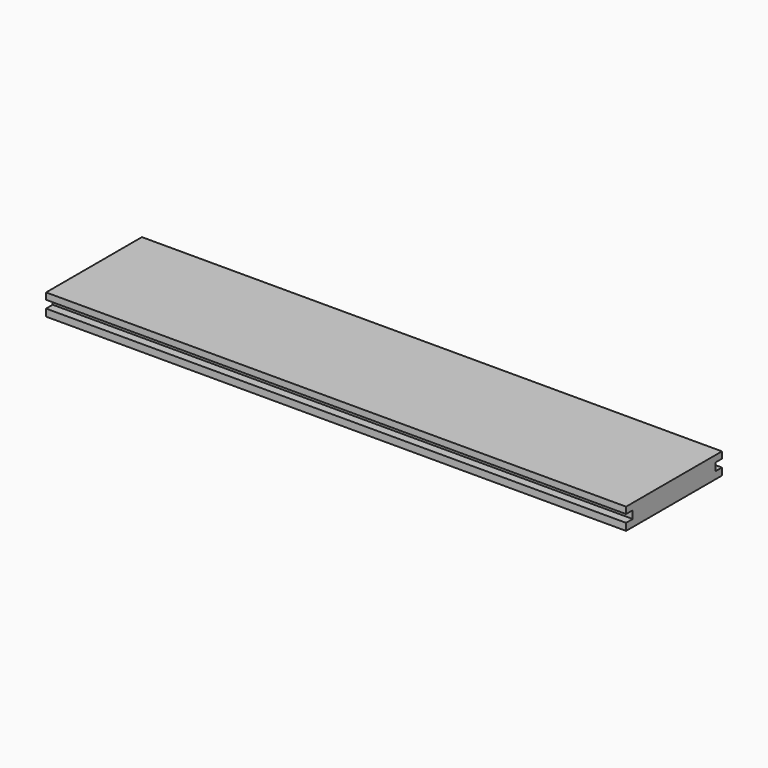
from build123d import *

# Parameters (mm, degrees)
SKETCH_W          = 489
SKETCH_H          = 101
PAD_DEPTH         = 18
SKETCH001_W       = 7
SKETCH001_H       = 6.5
POCKET_DEPTH      = 550
POCKET_DEPTH_BACK = -555


with BuildPart() as part:
    # Sketch → Pad (new body)
    with BuildSketch(Plane.XY):
        Rectangle(SKETCH_W, SKETCH_H)
    extrude(amount=PAD_DEPTH)

    # Sketch001 → Pocket (cut, two sides)
    with BuildSketch(Plane.YZ) as pocket_sk:
        with Locations((47, 9.25)):
            Rectangle(SKETCH001_W, SKETCH001_H)
        with Locations((-47, 9.25)):
            Rectangle(SKETCH001_W, SKETCH001_H)
    extrude(amount=-POCKET_DEPTH, mode=Mode.SUBTRACT)
    extrude(pocket_sk.sketch, amount=-POCKET_DEPTH_BACK, mode=Mode.SUBTRACT)


solid = part.part
